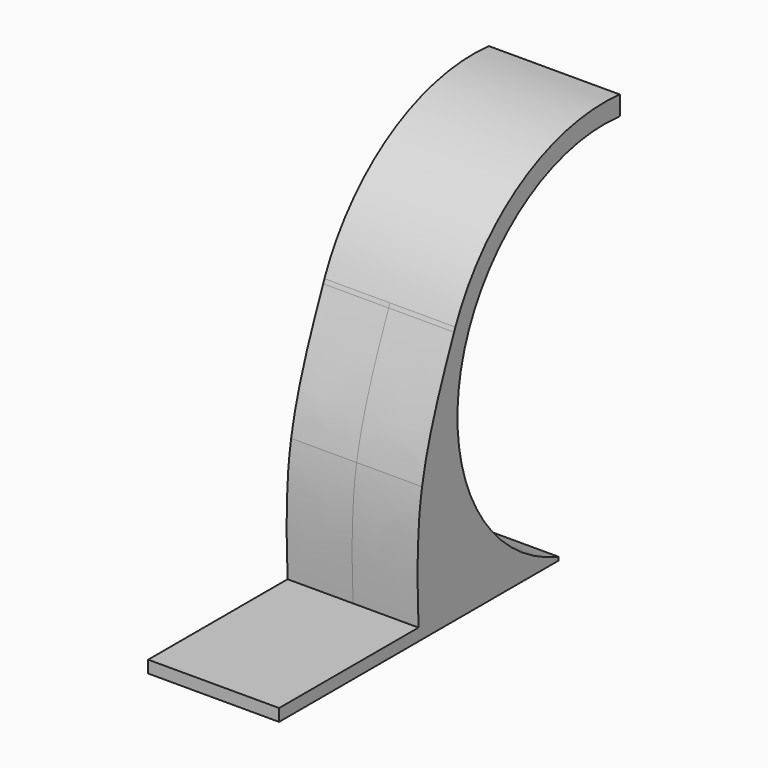
from build123d import *

# Parameters (mm, degrees)
F1_DEPTH = 75
F2_DEPTH = 4
F3_DEPTH = 200
F4_DEPTH = 10


with BuildPart() as f1:
    # F0 (on Right) → F1 (new body, symmetric)
    with BuildSketch(Plane.YZ):
        with BuildLine():
            Line((-92.3375381151, 150), (-58.3594357527, 150))
            ThreePointArc((-58.3594357527, 150), (-62.8590677445, 219.5182916975), (-46.5160623858, 287.2379029225))
            add(Edge.make_bspline(
                [(-92.3375381151, 150), (-83.8972050592, 197.0286155209), (-65.4330781641, 242.1901230497), (-46.5160623858, 287.2379029225)],
                knots=[0.5005259003, 0.5005259003, 0.5005259003, 0.5005259003, 0.9842554423, 0.9842554423, 0.9842554423, 0.9842554423], degree=3))
        make_face()
        with BuildLine():
            Line((-97.0230517394, 0), (50.0025975795, 0))
            ThreePointArc((50.0025975795, 0), (-19.782437401, 63.7274456487), (-58.3594357527, 150))
            Line((-58.3594357527, 150), (-92.3375381151, 150))
            add(Edge.make_bspline(
                [(-97.0230517394, 0), (-99.0723612734, 50.6778343669), (-101.0709416697, 101.3384276147), (-92.3375381151, 150)],
                knots=[0, 0, 0, 0, 0.5005259003, 0.5005259003, 0.5005259003, 0.5005259003], degree=3))
        make_face()
        with BuildLine():
            Line((-58.3594357527, 150), (-35.7824824753, 150))
            ThreePointArc((-35.7824824753, 150), (9.701095737, 337.2321487603), (188.6912309552, 408.5565128374))
            Line((188.6912309552, 408.5565128374), (190.8316842979, 408.5565128374))
            Line((190.8316842979, 408.5565128374), (190.8316842979, 430.4521389342))
            ThreePointArc((190.8316842979, 430.4521389342), (50.4625001931, 399.417827924), (-44.6678048686, 291.636283284))
            add(Edge.make_bspline(
                [(-46.5160623858, 287.2379029225), (-45.9003463268, 288.7041300386), (-45.284150482, 290.1702366729), (-44.6678048686, 291.636283284)],
                knots=[0.9842554423, 0.9842554423, 0.9842554423, 0.9842554423, 1, 1, 1, 1], degree=3))
            ThreePointArc((-46.5160623858, 287.2379029225), (-62.8590677445, 219.5182916975), (-58.3594357527, 150))
        make_face()
        with BuildLine():
            Line((50.0025975795, 0), (102.9769482606, 0))
            ThreePointArc((102.9769482606, 0), (14.1204583697, 56.9827590308), (-35.7824824753, 150))
            Line((-35.7824824753, 150), (-58.3594357527, 150))
            ThreePointArc((-58.3594357527, 150), (-19.782437401, 63.7274456487), (50.0025975795, 0))
        make_face()
    extrude(amount=F1_DEPTH, both=True)

    # F2 (add): a face of the model
    f2_faces = [f1.faces().sort_by_distance(p)[0] for p in [
        (0, 2.9769482606, 0),
    ]]
    extrude(f2_faces, amount=F2_DEPTH)

    # F3 (add): a face of the model
    f3_faces = [f1.faces().sort_by_distance(p)[0] for p in [
        (0, -97.0230517394, -2),
    ]]
    extrude(f3_faces, amount=F3_DEPTH)

    # F4 (add): a face of the model
    f4_faces = [f1.faces().sort_by_distance(p)[0] for p in [
        (0, -197.0230517394, 0),
    ]]
    extrude(f4_faces, amount=F4_DEPTH)


solid = f1.part
